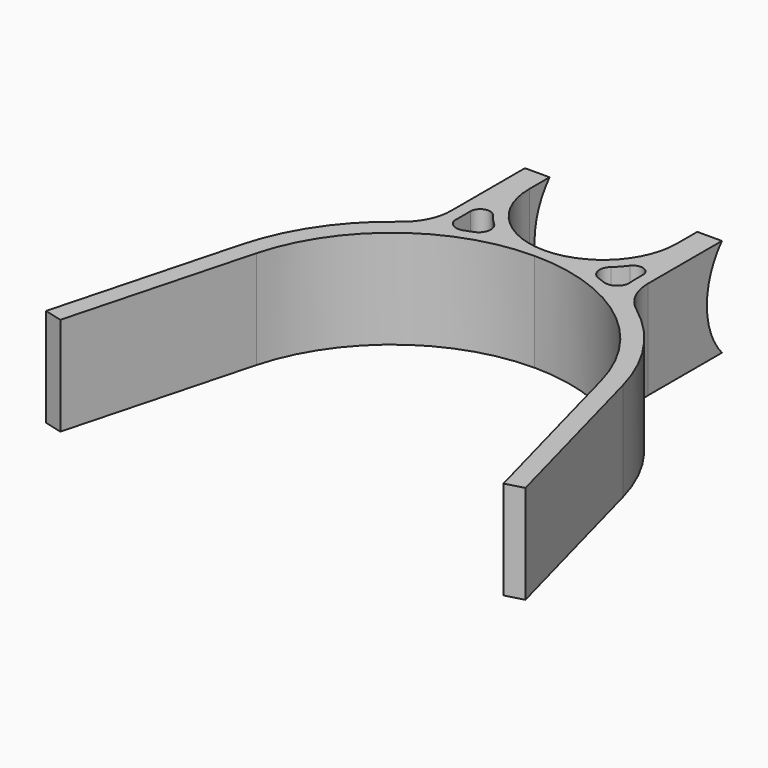
from build123d import *

# Parameters (mm, degrees)
F1_DEPTH = 25.4
F3_D     = 38.1


with BuildPart() as f1:
    # F0 (on Top) → F1 (new body)
    with BuildSketch(Plane.XY):
        with BuildLine():
            ThreePointArc((0, 46.0375), (28.025854, 36.524004), (44.46881, 11.915382))
            Line((44.46881, 11.915382), (57.15, -35.411463))
            Line((57.15, -35.411463), (61.811558, -34.162402))
            Line((61.811558, -34.162402), (49.130368, 13.164443))
            ThreePointArc((49.130368, 13.164443), (42.12476, 28.506144), (30.487612, 40.713648))
            ThreePointArc((30.487612, 40.713648), (26.742903, 45.195486), (25.4, 50.879353))
            Line((25.4, 50.879353), (25.4, 88.9))
            Line((25.4, 88.9), (19.05, 88.9))
            Line((19.05, 88.9), (19.05, 68.180236))
            ThreePointArc((19.05, 68.180236), (13.470384, 54.709852), (0, 49.130236))
            ThreePointArc((0, 49.130236), (-13.470384, 54.709852), (-19.05, 68.180236))
            Line((-19.05, 68.180236), (-19.05, 88.9))
            Line((-19.05, 88.9), (-25.4, 88.9))
            Line((-25.4, 88.9), (-25.4, 50.879353))
            ThreePointArc((-25.4, 50.879353), (-26.742903, 45.195486), (-30.487612, 40.713648))
            ThreePointArc((-30.487612, 40.713648), (-42.12476, 28.506144), (-49.130368, 13.164443))
            Line((-49.130368, 13.164443), (-61.811558, -34.162402))
            Line((-61.811558, -34.162402), (-57.15, -35.411463))
            Line((-57.15, -35.411463), (-44.46881, 11.915382))
            ThreePointArc((-44.46881, 11.915382), (-28.025854, 36.524004), (0, 46.0375))
        make_face()
        with BuildLine():
            ThreePointArc((-17.666026, 54.694608), (-16.418639, 53.200954), (-15.045376, 51.822141))
            ThreePointArc((-15.045376, 51.822141), (-14.085938, 48.840187), (-16.152611, 46.486163))
            ThreePointArc((-16.152611, 46.486163), (-17.083314, 46.152254), (-18.007121, 45.799713))
            ThreePointArc((-18.007121, 45.799713), (-20.580808, 45.910758), (-22.225, 47.893894))
            Line((-22.225, 47.893894), (-22.225, 53.153394))
            ThreePointArc((-22.225, 53.153394), (-20.498451, 55.559614), (-17.666026, 54.694608))
        make_face(mode=Mode.SUBTRACT)
        with BuildLine():
            ThreePointArc((17.666026, 54.694608), (20.498451, 55.559614), (22.225, 53.153394))
            Line((22.225, 53.153394), (22.225, 50.879353))
            ThreePointArc((22.225, 50.879353), (22.249784, 49.992627), (22.324059, 49.10867))
            ThreePointArc((22.324059, 49.10867), (22.333367, 48.496484), (22.225, 47.893894))
            ThreePointArc((22.225, 47.893894), (20.580808, 45.910758), (18.007121, 45.799713))
            ThreePointArc((18.007121, 45.799713), (17.083314, 46.152254), (16.152611, 46.486163))
            ThreePointArc((16.152611, 46.486163), (14.085938, 48.840187), (15.045376, 51.822141))
            ThreePointArc((15.045376, 51.822141), (16.418639, 53.200954), (17.666026, 54.694608))
        make_face(mode=Mode.SUBTRACT)
    extrude(amount=F1_DEPTH)

    # F3 (through all)
    with Locations(Plane.YZ.offset(25.4)):
        with Locations((88.9, 12.7)):
            Hole(F3_D / 2)


solid = f1.part
